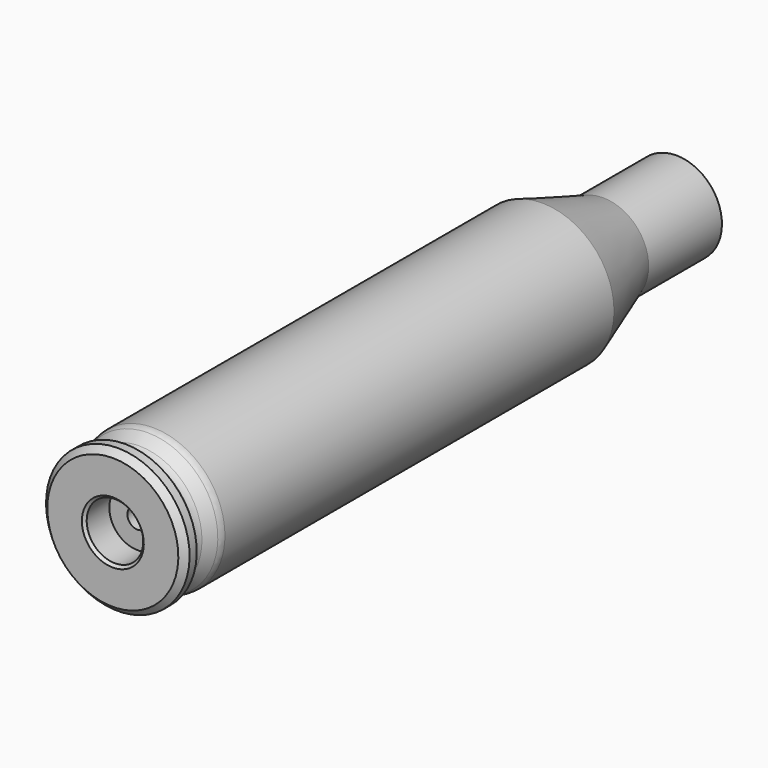
from build123d import *

# Parameters (mm, degrees)
F2_SIZE = 0.889
F3_SIZE = 0.381
F4_R    = 1.651


with BuildPart() as f1:
    # F0 (on Right) → F1 (revolve)
    with BuildSketch(Plane.YZ):
        with BuildLine():
            Line((0, 10.2108), (0, 4.024108))
            Line((0, 4.024108), (4.410164, 4.024108))
            Line((4.410164, 4.024108), (4.410164, 1.457856))
            Line((4.410164, 1.457856), (6.667502, 1.457856))
            Line((6.667502, 1.457856), (6.667502, 3.428277))
            ThreePointArc((6.667502, 3.428277), (8.527374, 7.918405), (13.017502, 9.778277))
            Line((13.017502, 9.778277), (76.3524, 9.778277))
            Line((76.3524, 9.778277), (87.180994, 6.057177))
            Line((87.180994, 6.057177), (100.203, 6.057177))
            Line((100.203, 6.057177), (100.203, 6.4897))
            Line((100.203, 6.4897), (87.180994, 6.4897))
            Line((87.180994, 6.4897), (76.3524, 10.2108))
            Line((76.3524, 10.2108), (6.667502, 10.2108))
            Line((6.667502, 10.2108), (4.299904, 8.636))
            Line((4.299904, 8.636), (2.159, 8.636))
            Line((2.159, 8.636), (2.159, 10.2108))
            Line((2.159, 10.2108), (0, 10.2108))
        make_face()
    revolve(axis=Axis((0, 1.0795, 0), (0, 1, 0)))

    # F2
    f2_edges = [f1.edges().sort_by_distance(p)[0] for p in [
        (0, 0, -10.2108),
    ]]
    chamfer(f2_edges, length=F2_SIZE)

    # F3
    f3_edges = [f1.edges().sort_by_distance(p)[0] for p in [
        (0, 0, -4.024108),
    ]]
    chamfer(f3_edges, length=F3_SIZE)

    # F4
    f4_edges = [f1.edges().sort_by_distance(p)[0] for p in [
        (0, 6.667502, -10.2108),
        (0, 4.299904, -8.636),
    ]]
    fillet(f4_edges, radius=F4_R)


solid = f1.part
